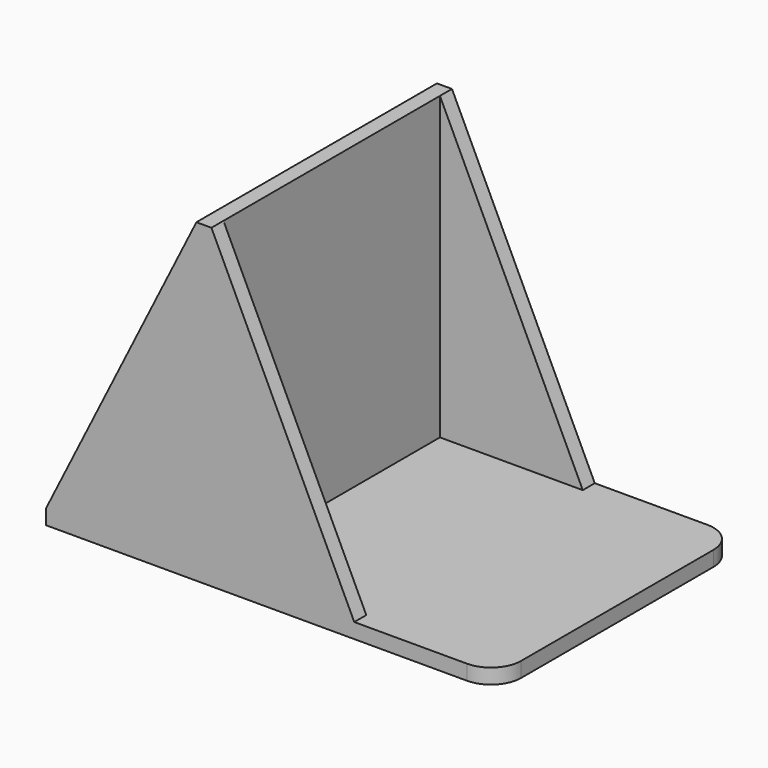
from build123d import *

# Parameters (mm, degrees)
F0_W     = 48.26
F0_H     = 50.8
F0_W_2   = 25.4
F0_W_3   = 2.54
F1_DEPTH = 2.54
F2_DEPTH = 50.8
F4_DEPTH = 2.54
F6_DEPTH = 2.54
F7_R     = 5.08


with BuildPart() as f1:
    # F0 (on Top) → F1 (new body)
    with BuildSketch(Plane.XY):
        with Locations((29.726995, 6.723735)):
            Rectangle(F0_W, F0_H)
        with Locations((-9.643005, 6.723735)):
            Rectangle(F0_W_2, F0_H)
        with Locations((4.326995, 6.723735)):
            Rectangle(F0_W_3, F0_H)
    extrude(amount=-F1_DEPTH)

    # F0 (on Top) → F2 (join)
    with BuildSketch(Plane.XY):
        with Locations((4.326995, 6.723735)):
            Rectangle(F0_W_3, F0_H)
    extrude(amount=F2_DEPTH)

    # F3 (on face) → F4 (join)
    with BuildSketch(Plane.XZ.offset(18.676265)):
        Polygon((3.056995, 50.8), (-22.343005, 0), (3.056995, 0), align=None)
        Polygon((29.726995, 0), (5.596995, 50.8), (5.596995, 0), align=None)
    extrude(amount=-F4_DEPTH)

    # F5 (on face) → F6 (join)
    with BuildSketch(Plane(origin=(0, 32.123735, 0), x_dir=(-1, 0, 0), z_dir=(0, 1, 0))):
        Polygon((22.343005, 0), (-3.056995, 50.8), (-3.056995, 0), align=None)
        Polygon((-5.596995, 0), (-5.596995, 50.8), (-29.726995, 0), align=None)
    extrude(amount=-F6_DEPTH)

    # F7
    f7_edges = [f1.edges().sort_by_distance(p)[0] for p in [
        (53.856995, -18.676265, -1.27),
        (53.856995, 32.123735, -1.27),
    ]]
    fillet(f7_edges, radius=F7_R)


solid = f1.part
